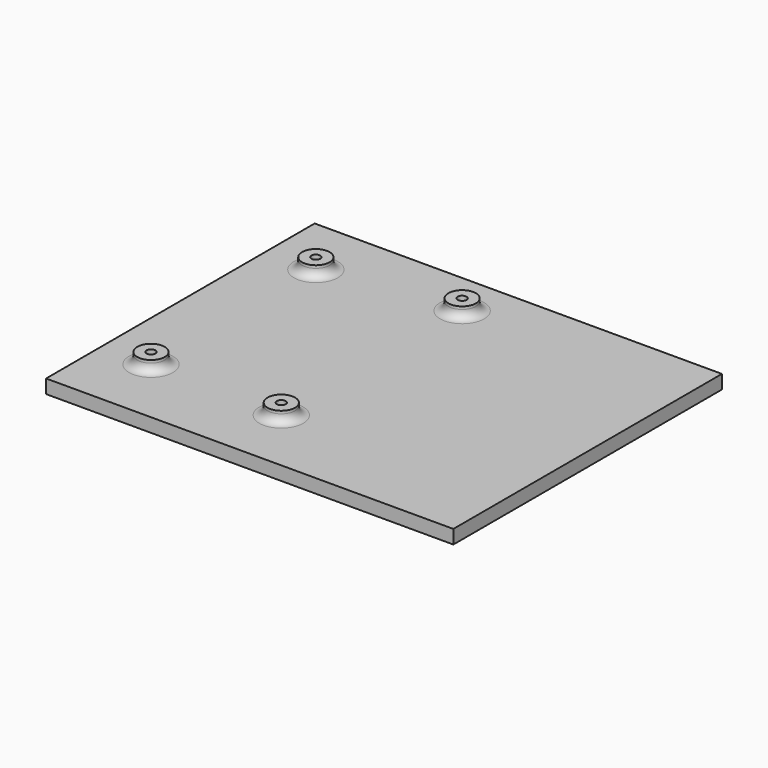
from build123d import *

# Parameters (mm, degrees)
F0_W     = 148
F0_H     = 122
F0_W_2   = 64
F0_H_2   = 102
F0_W_3   = 54
F0_H_3   = 82
F0_R     = 5
F0_R_2   = 3.5
F0_R_3   = 1.6
F1_DEPTH = 5
F2_DEPTH = 9
F3_DEPTH = 3
F4_R     = 3


with BuildPart() as f1:
    # F0 (on Top) → F1 (new body)
    with BuildSketch(Plane.XY):
        with Locations((32, 0)):
            Rectangle(F0_W, F0_H)
        Rectangle(F0_W_2, F0_H_2, mode=Mode.SUBTRACT)
        with Locations((69, 0)):
            Rectangle(F0_W_3, F0_H_3, mode=Mode.SUBTRACT)
        Rectangle(F0_W_2, F0_H_2)
        with Locations((-24.15, -35.65)):
            Circle(F0_R, mode=Mode.SUBTRACT)
        with Locations((24.2, -36.9)):
            Circle(F0_R, mode=Mode.SUBTRACT)
        with Locations((-24, 39.05)):
            Circle(F0_R, mode=Mode.SUBTRACT)
        with Locations((24.2, 45.25)):
            Circle(F0_R, mode=Mode.SUBTRACT)
        with Locations((69, 0)):
            Rectangle(F0_W_3, F0_H_3)
        with Locations((24.2, -36.9)):
            Circle(F0_R)
        with Locations((24.2, -36.9)):
            Circle(F0_R_2, mode=Mode.SUBTRACT)
        with Locations((-24.15, -35.65)):
            Circle(F0_R)
        with Locations((-24.15, -35.65)):
            Circle(F0_R_2, mode=Mode.SUBTRACT)
        with Locations((-24, 39.05)):
            Circle(F0_R)
        with Locations((-24, 39.05)):
            Circle(F0_R_2, mode=Mode.SUBTRACT)
        with Locations((24.2, 45.25)):
            Circle(F0_R)
        with Locations((24.2, 45.25)):
            Circle(F0_R_2, mode=Mode.SUBTRACT)
        with Locations((-24.15, -35.65)):
            Circle(F0_R_2)
        with Locations((-24.15, -35.65)):
            Circle(F0_R_3, mode=Mode.SUBTRACT)
        with Locations((24.2, -36.9)):
            Circle(F0_R_2)
        with Locations((24.2, -36.9)):
            Circle(F0_R_3, mode=Mode.SUBTRACT)
        with Locations((24.2, 45.25)):
            Circle(F0_R_2)
        with Locations((24.2, 45.25)):
            Circle(F0_R_3, mode=Mode.SUBTRACT)
        with Locations((-24, 39.05)):
            Circle(F0_R_2)
        with Locations((-24, 39.05)):
            Circle(F0_R_3, mode=Mode.SUBTRACT)
    extrude(amount=F1_DEPTH)

    # F0 (on Top) → F2 (join)
    with BuildSketch(Plane.XY):
        with Locations((24.2, -36.9)):
            Circle(F0_R)
        with Locations((24.2, -36.9)):
            Circle(F0_R_2, mode=Mode.SUBTRACT)
        with Locations((-24.15, -35.65)):
            Circle(F0_R)
        with Locations((-24.15, -35.65)):
            Circle(F0_R_2, mode=Mode.SUBTRACT)
        with Locations((-24, 39.05)):
            Circle(F0_R)
        with Locations((-24, 39.05)):
            Circle(F0_R_2, mode=Mode.SUBTRACT)
        with Locations((24.2, 45.25)):
            Circle(F0_R)
        with Locations((24.2, 45.25)):
            Circle(F0_R_2, mode=Mode.SUBTRACT)
        with Locations((-24, 39.05)):
            Circle(F0_R_2)
        with Locations((-24, 39.05)):
            Circle(F0_R_3, mode=Mode.SUBTRACT)
        with Locations((24.2, 45.25)):
            Circle(F0_R_2)
        with Locations((24.2, 45.25)):
            Circle(F0_R_3, mode=Mode.SUBTRACT)
        with Locations((24.2, -36.9)):
            Circle(F0_R_2)
        with Locations((24.2, -36.9)):
            Circle(F0_R_3, mode=Mode.SUBTRACT)
        with Locations((-24.15, -35.65)):
            Circle(F0_R_2)
        with Locations((-24.15, -35.65)):
            Circle(F0_R_3, mode=Mode.SUBTRACT)
    extrude(amount=F2_DEPTH)

    # F0 (on Top) → F3 (cut)
    with BuildSketch(Plane.XY):
        with Locations((24.2, -36.9)):
            Circle(F0_R_2)
        with Locations((24.2, -36.9)):
            Circle(F0_R_3, mode=Mode.SUBTRACT)
        with Locations((-24.15, -35.65)):
            Circle(F0_R_2)
        with Locations((-24.15, -35.65)):
            Circle(F0_R_3, mode=Mode.SUBTRACT)
        with Locations((-24, 39.05)):
            Circle(F0_R_2)
        with Locations((-24, 39.05)):
            Circle(F0_R_3, mode=Mode.SUBTRACT)
        with Locations((24.2, 45.25)):
            Circle(F0_R_2)
        with Locations((24.2, 45.25)):
            Circle(F0_R_3, mode=Mode.SUBTRACT)
    extrude(amount=F3_DEPTH, mode=Mode.SUBTRACT)

    # F4
    f4_edges = [f1.edges().sort_by_distance(p)[0] for p in [
        (19.2, -36.9, 5),
        (19.2, 45.25, 5),
        (-29.15, -35.65, 5),
        (-29, 39.05, 5),
    ]]
    fillet(f4_edges, radius=F4_R)


solid = f1.part
